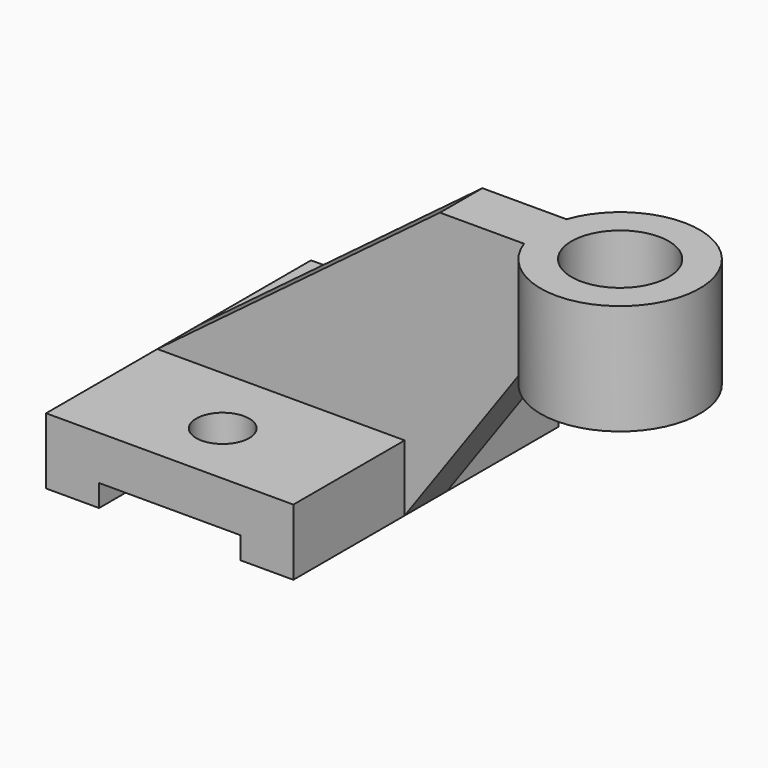
from build123d import *

# Parameters (mm, degrees)
F2_DEPTH = 37.5
F3_DEPTH = 6
F0_R     = 18
F0_R_2   = 11
F4_DEPTH = 25
F0_R_3   = 6
F5_DEPTH = 63.001


with BuildPart() as f2:
    # F1 (on Front) → F2 (new body, symmetric)
    with BuildSketch(Plane.XZ):
        Polygon((-66.326725, -48), (-66.326725, -63), (-54.326725, -63), (-54.326725, -58), (-22.326725, -58), (-22.326725, -63), (-10.326725, -63), (-10.326725, -48), align=None)
    extrude(amount=F2_DEPTH, both=True)

    # F1 (on Front) → F3 (join, symmetric)
    with BuildSketch(Plane.XZ):
        Polygon((-2.326725, 0), (-66.326725, -48), (-10.326725, -48), (-10.326725, -63), (16.690247, -25), (16.690247, 0), align=None)
    extrude(amount=F3_DEPTH, both=True)

    # F0 (on Top) → F4 (join)
    with BuildSketch(Plane.XY):
        with Locations((33.673275, 0)):
            Circle(F0_R)
        with Locations((33.673275, 0)):
            Circle(F0_R_2, mode=Mode.SUBTRACT)
    extrude(amount=-F4_DEPTH)

    # F0 (on Top) → F5 (cut, through all)
    with BuildSketch(Plane.XY):
        with Locations((-38.326725, 22.5)):
            Circle(F0_R_3)
        with Locations((-38.326725, -22.5)):
            Circle(F0_R_3)
    extrude(amount=-F5_DEPTH, mode=Mode.SUBTRACT)


solid = f2.part
